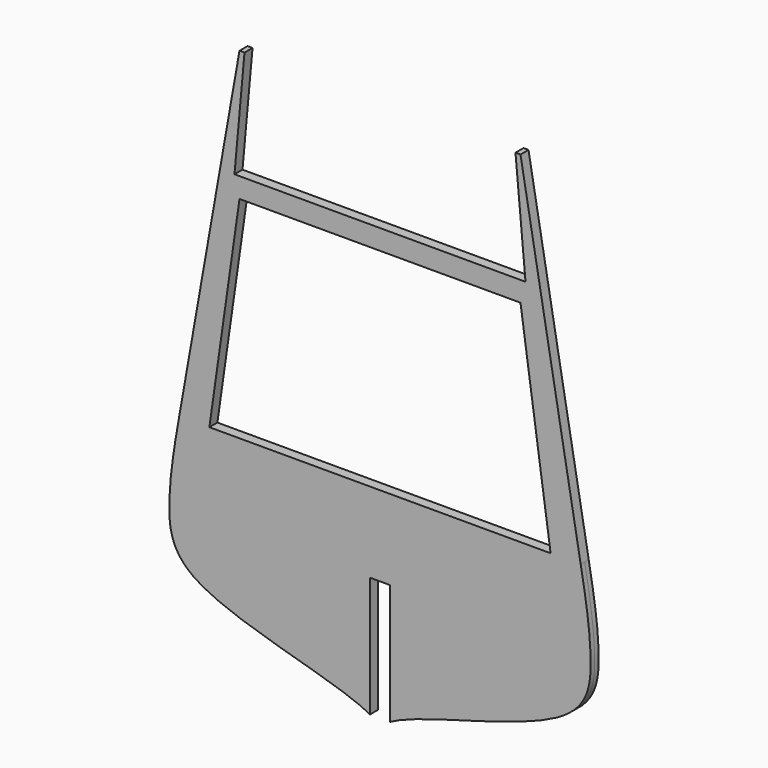
from build123d import *

# Parameters (mm, degrees)
F1_DEPTH = 1.5875


with BuildPart() as f1:
    # F0 (on Front) → F1 (new body, symmetric)
    with BuildSketch(Plane.XZ):
        with BuildLine():
            Line((46.0375, 73.025), (0, 73.025))
            Line((0, 73.025), (-46.0375, 73.025))
            Line((-46.0375, 73.025), (-42.8625, 107.95))
            Line((-42.8625, 107.95), (-44.45, 107.95))
            Line((-44.45, 107.95), (-63.5, 0))
            add(Edge.make_bspline(
                [(-3.175, -63.5), (-13.1374953938, -57.7481506026), (-62.6397148621, -49.189235498), (-68.5701443256, -27.2943294086), (-64.2417408017, -4.2031978762), (-63.5, 0)],
                knots=[0, 0, 0, 0, 0.4388382852, 0.7065311513, 1, 1, 1, 1], degree=3))
            Line((-3.175, -63.5), (-3.175, -25.4))
            Line((-3.175, -25.4), (0, -25.4))
            Line((0, -25.4), (3.175, -25.4))
            Line((3.175, -25.4), (3.175, -63.5))
            add(Edge.make_bspline(
                [(3.175, -63.5), (13.1374953938, -57.7481506026), (62.6397148621, -49.189235498), (68.5701443256, -27.2943294086), (64.2417408017, -4.2031978762), (63.5, 0)],
                knots=[0, 0, 0, 0, 0.4388382852, 0.7065311513, 1, 1, 1, 1], degree=3))
            Line((63.5, 0), (44.45, 107.95))
            Line((44.45, 107.95), (42.8625, 107.95))
            Line((42.8625, 107.95), (46.0375, 73.025))
        make_face()
        Polygon((53.975, 0), (0, 0), (-53.975, 0), (-44.45, 66.675), (0, 66.675), (44.45, 66.675), align=None, mode=Mode.SUBTRACT)
    extrude(amount=F1_DEPTH, both=True)


solid = f1.part
